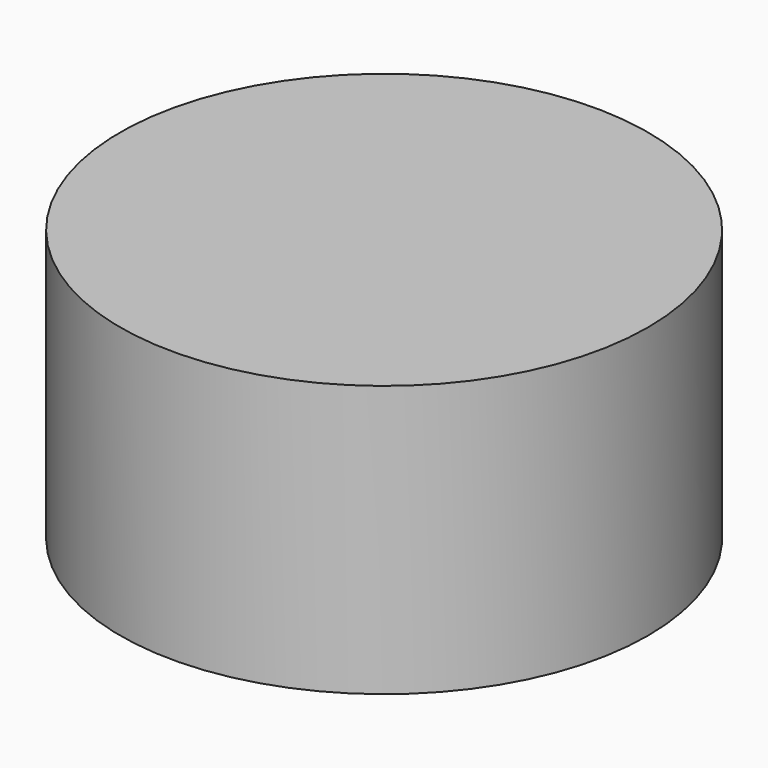
from build123d import *

# Parameters (mm, degrees)
CYLINDER157_R     = 2.25
CYLINDER157_DEPTH = 7
CYLINDER156_R     = 1
CYLINDER156_DEPTH = 14
CYLINDER147_R     = 1
CYLINDER147_DEPTH = 1
ARRAY_COUNT       = 3
CYLINDER153_R     = 10
CYLINDER153_DEPTH = 10
CYLINDER_R        = 10.7
CYLINDER_DEPTH    = 11


with BuildPart() as sealsubtraction:
    # Cylinder157 → Cylinder157 (new body)
    with BuildSketch(Plane.XY.offset(4.5)):
        Circle(CYLINDER157_R)
    extrude(amount=CYLINDER157_DEPTH)


with BuildPart() as bottomwireoutlet:
    # Cylinder156 → Cylinder156 (new body)
    with BuildSketch(Plane.XY.offset(-7)):
        Circle(CYLINDER156_R)
    extrude(amount=CYLINDER156_DEPTH)


with BuildPart() as sealarray:
    # Cylinder147 → Cylinder147 (new body)
    with BuildSketch(Plane.XY.offset(4.5)):
        Circle(CYLINDER147_R)
    extrude(amount=CYLINDER147_DEPTH)

    # Fusion: union SealSubtraction, BottomWireOutlet
    add(sealsubtraction.part)
    add(bottomwireoutlet.part)


with BuildPart() as sealarray_1:
    # Fusion placement: moved
    add(sealarray.part.moved(Location((4.25, 0, 0))))

    # Array: SealArray ×3 about axis
    array_axis = Axis((0, 0, 0), (0, 0, 1))


with BuildPart() as sealarray_2:
    add(sealarray_1.part)
    for i in range(1, ARRAY_COUNT):
        add(sealarray_1.part.rotate(array_axis, i * 360 / ARRAY_COUNT))


with BuildPart() as cut:
    # Cylinder153 → Cylinder153 (new body)
    with BuildSketch(Plane.XY.offset(-2)):
        Circle(CYLINDER153_R)
    extrude(amount=CYLINDER153_DEPTH)

    # Cut: cut SealArray
    add(sealarray_2.part, mode=Mode.SUBTRACT)


with BuildPart() as cut027:
    # Cylinder → Cylinder (new body)
    with BuildSketch(Plane.XY.offset(-2)):
        Circle(CYLINDER_R)
    extrude(amount=CYLINDER_DEPTH)

    # Cut027: cut Cut
    add(cut.part, mode=Mode.SUBTRACT)


solid = cut027.part
